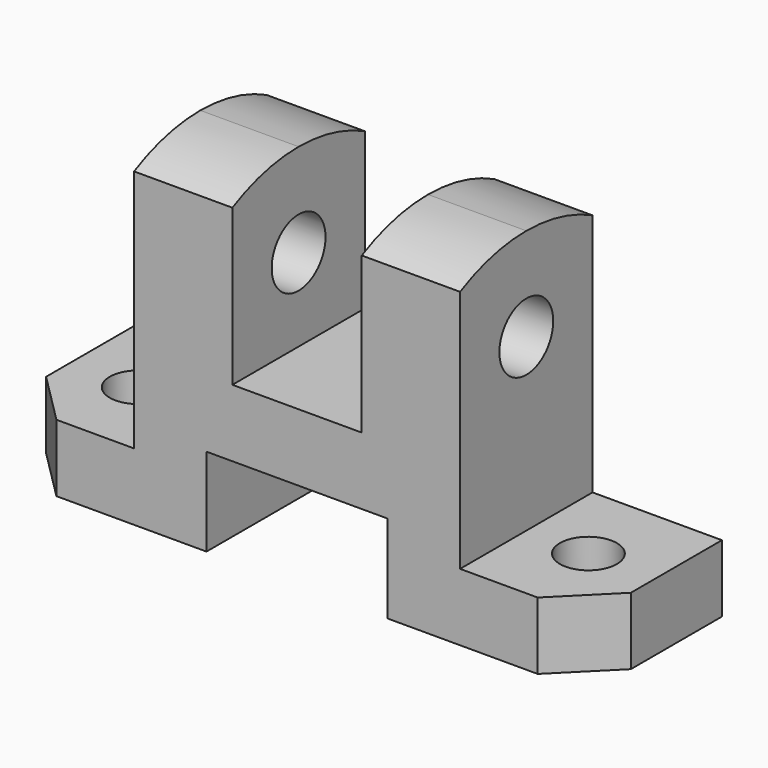
from build123d import *

# Parameters (mm, degrees)
F1_DEPTH  = 16
F3_DEPTH  = 13.001
F5_DEPTH  = 13.001
F6_R      = 6.5
F7_DEPTH  = 88.001
F8_R      = 5.5
F9_DEPTH  = 13.001
F11_DEPTH = 88.001


with BuildPart() as f1:
    # F0 (on Front) → F1 (new body, symmetric)
    with BuildSketch(Plane.XZ):
        Polygon((0, 13), (0, 0), (39, 0), (39, 17), (74, 17), (74, 0), (113, 0), (113, 13), (88, 13), (88, 64), (69, 64), (69, 30), (44, 30), (44, 64), (25, 64), (25, 13), align=None)
    extrude(amount=F1_DEPTH, both=True)

    # F2 (on face) → F3 (cut, through all)
    with BuildSketch(Plane.XY.offset(13)):
        Polygon((10, -16), (0, -6), (0, -16), align=None)
    extrude(amount=-F3_DEPTH, mode=Mode.SUBTRACT)

    # F4 (on face) → F5 (cut, through all)
    with BuildSketch(Plane.XY.offset(13)):
        Polygon((113, -6), (103, -16), (113, -16), align=None)
    extrude(amount=-F5_DEPTH, mode=Mode.SUBTRACT)

    # F6 (on face) → F7 (cut, through all)
    with BuildSketch(Plane.YZ.offset(88)):
        with Locations((0, 46)):
            Circle(F6_R)
    extrude(amount=-F7_DEPTH, mode=Mode.SUBTRACT)

    # F8 (on face) → F9 (cut, through all)
    with BuildSketch(Plane.XY.offset(13)):
        with Locations((100, 0)):
            Circle(F8_R)
        with Locations((13, 0)):
            Circle(F8_R)
    extrude(amount=-F9_DEPTH, mode=Mode.SUBTRACT)

    # F10 (on face) → F11 (cut, through all)
    with BuildSketch(Plane.YZ.offset(88)):
        with BuildLine():
            ThreePointArc((-16, 60.128765), (-8.230833, 63.018427), (0, 64))
            Line((0, 64), (-16, 64))
            Line((-16, 64), (-16, 60.128765))
        make_face()
        with BuildLine():
            ThreePointArc((0, 64), (8.230833, 63.018427), (16, 60.128765))
            Line((16, 60.128765), (16, 64))
            Line((16, 64), (0, 64))
        make_face()
    extrude(amount=-F11_DEPTH, mode=Mode.SUBTRACT)


solid = f1.part
